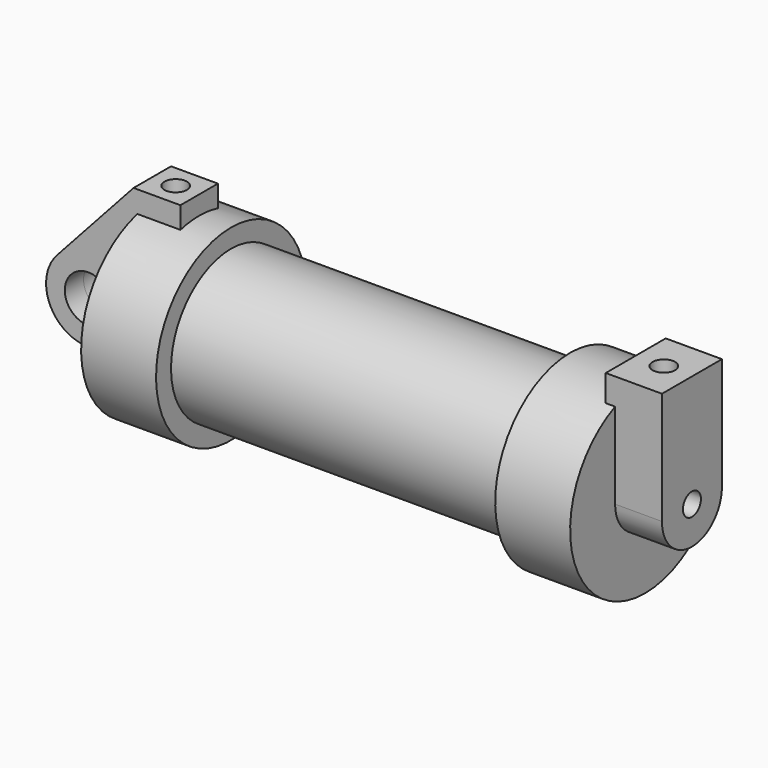
from build123d import *

# Parameters (mm, degrees)
F0_W          = 5.842
F0_H          = 12.7
F0_R          = 3.175
F2_DEPTH      = 3.175
F3_R          = 1.524
F4_DEPTH      = 1.27
F4_DEPTH_BACK = 6.35
F5_DEPTH      = 56.134
F6_R          = 1.524
F7_DEPTH      = 17.78
F8_DEPTH      = 10.414


with BuildPart() as f1:
    # F0 (on Front) → F1 (revolve)
    with BuildSketch(Plane.XZ):
        Polygon((5.842, 12.7), (5.842, 0), (66.294, 0), (66.294, 12.7), (56.134, 12.7), (56.134, 10.16), (10.16, 10.16), (10.16, 12.7), align=None)
        with Locations((2.921, 6.35)):
            Rectangle(F0_W, F0_H)
    revolve(axis=Axis((33.147, 0, 0), (-1, 0, 0)))

    # F0 (on Front) → F2 (join, symmetric)
    with BuildSketch(Plane.XZ):
        with BuildLine():
            Line((-0.9398, 0), (0, 0))
            Line((0, 0), (0, 12.7))
            Line((0, 12.7), (5.842, 12.7))
            Line((5.842, 12.7), (5.842, 15.24))
            Line((5.842, 15.24), (-0.508, 15.24))
            Line((-0.508, 15.24), (-10.8806298187, 3.8475430269))
            ThreePointArc((-10.8806298187, 3.8475430269), (-4.5919612295, 5.3297205562), (-0.9398, 0))
        make_face()
        with BuildLine():
            ThreePointArc((-8.1826630726, -5.5069827884), (-3.1957909266, -4.5493385486), (-0.9398, 0))
            ThreePointArc((-0.9398, 0), (-4.5919612295, 5.3297205562), (-10.8806298187, 3.8475430269))
            ThreePointArc((-10.8806298187, 3.8475430269), (-12.1459778134, -1.5837270034), (-8.1826630726, -5.5069827884))
        make_face()
        with Locations((-6.6548, 0)):
            Circle(F0_R, mode=Mode.SUBTRACT)
        with Locations((2.921, 6.35)):
            Rectangle(F0_W, F0_H)
    extrude(amount=F2_DEPTH, both=True)

    # F3 (on face) → F4 (join, two sides)
    with BuildSketch(Plane.YZ.offset(66.294)) as f4_sk:
        with BuildLine():
            ThreePointArc((-5.08, 0), (0, -5.08), (5.08, 0))
            ThreePointArc((5.08, 0), (0, 5.08), (-5.08, 0))
        make_face()
        Circle(F3_R, mode=Mode.SUBTRACT)
        with BuildLine():
            ThreePointArc((-5.08, 0), (0, 5.08), (5.08, 0))
            Line((5.08, 0), (5.08, 15.24))
            Line((5.08, 15.24), (-5.08, 15.24))
            Line((-5.08, 15.24), (-5.08, 0))
        make_face()
    extrude(amount=-F4_DEPTH)
    extrude(f4_sk.sketch, amount=F4_DEPTH_BACK)

    # F3 (on face) → F5 (cut, through all)
    with BuildSketch(Plane.YZ.offset(66.294)):
        Circle(F3_R)
    extrude(amount=-F5_DEPTH, mode=Mode.SUBTRACT)

    # F6 (on face) → F7 (cut)
    with BuildSketch(Plane.XY.offset(15.24)):
        with Locations((2.667, 0)):
            Circle(F6_R)
    extrude(amount=-F7_DEPTH, mode=Mode.SUBTRACT)

    # F6 (on face) → F8 (cut)
    with BuildSketch(Plane.XY.offset(15.24)):
        with Locations((68.834, 0)):
            Circle(F6_R)
    extrude(amount=-F8_DEPTH, mode=Mode.SUBTRACT)


solid = f1.part
